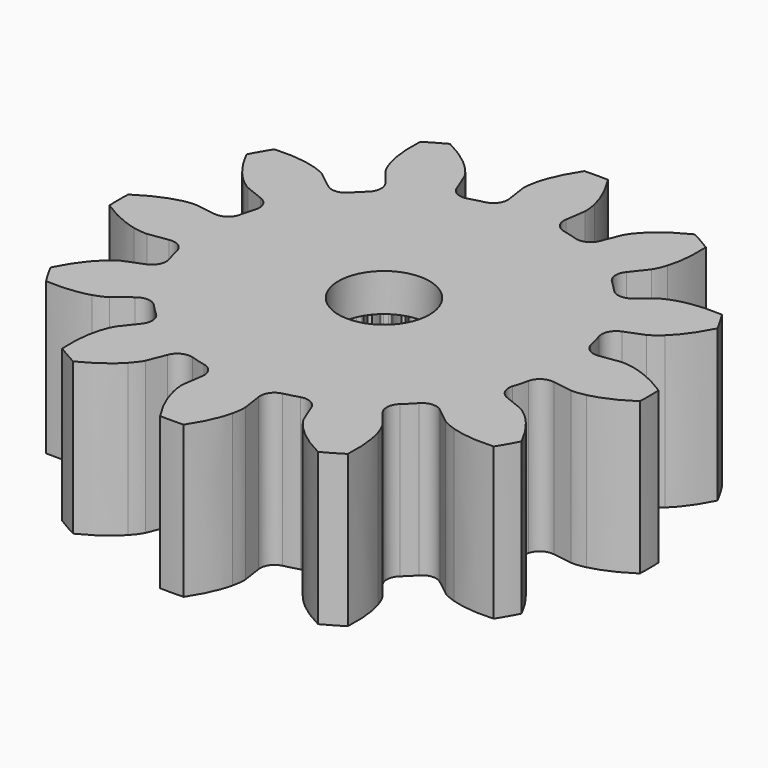
from build123d import *

# Parameters (mm, degrees)
PAD_DEPTH       = 4
POCKET_DEPTH    = 3
SKETCH_R        = 1.2
POCKET001_DEPTH = 4.001


with BuildPart() as part:
    # InvoluteGear001 → Pad (new body)
    with BuildSketch(Plane.XY):
        with BuildLine():
            Line((5.075568, -0.745328), (5.594228, -0.820664))
            add(Edge.make_bspline(
                [(5.594228, -0.820664), (5.635581, -0.823609), (5.759738, -0.82636), (5.968462, -0.778836)],
                knots=[0, 0, 0, 0, 1, 1, 1, 1], degree=3))
            add(Edge.make_bspline(
                [(5.968462, -0.778836), (6.216913, -0.72081), (6.57069, -0.59196), (6.994514, -0.309757)],
                knots=[0, 0, 0, 0, 1, 1, 1, 1], degree=3))
            ThreePointArc((6.994514, -0.309757), (7.000685, 0.000311), (6.993117, 0.310347))
            add(Edge.make_bspline(
                [(6.993117, 0.310347), (6.57069, 0.59196), (6.216913, 0.72081), (5.968462, 0.778836)],
                knots=[0, 0, 0, 0, 1, 1, 1, 1], degree=3))
            add(Edge.make_bspline(
                [(5.968462, 0.778836), (5.759738, 0.82636), (5.635581, 0.823609), (5.594228, 0.820664)],
                knots=[0, 0, 0, 0, 1, 1, 1, 1], degree=3))
            Line((5.594228, 0.820664), (5.075568, 0.745328))
            ThreePointArc((5.075568, 0.745328), (4.797245, 0.801779), (4.635779, 1.0354))
            ThreePointArc((4.635779, 1.0354), (4.588148, 1.22939), (4.532402, 1.421207))
            ThreePointArc((4.532402, 1.421207), (4.555425, 1.704262), (4.768234, 1.892311))
            Line((4.768234, 1.892311), (5.255075, 2.086398))
            add(Edge.make_bspline(
                [(5.255075, 2.086398), (5.292361, 2.104524), (5.401259, 2.16422), (5.558258, 2.309739)],
                knots=[0, 0, 0, 0, 1, 1, 1, 1], degree=3))
            add(Edge.make_bspline(
                [(5.558258, 2.309739), (5.74441, 2.484217), (5.986365, 2.772692), (6.212305, 3.229)],
                knots=[0, 0, 0, 0, 1, 1, 1, 1], degree=3))
            ThreePointArc((6.212305, 3.229), (6.062616, 3.500612), (5.901043, 3.765327))
            add(Edge.make_bspline(
                [(5.901043, 3.765327), (5.394404, 3.797998), (5.0236, 3.732696), (4.779422, 3.658723)],
                knots=[0, 0, 0, 0, 1, 1, 1, 1], degree=3))
            add(Edge.make_bspline(
                [(4.779422, 3.658723), (4.574899, 3.595517), (4.468752, 3.531057), (4.434411, 3.50783)],
                knots=[0, 0, 0, 0, 1, 1, 1, 1], degree=3))
            Line((4.434411, 3.50783), (4.022907, 3.183256))
            ThreePointArc((4.022907, 3.183256), (3.753647, 3.092983), (3.497002, 3.214572))
            ThreePointArc((3.497002, 3.214572), (3.358757, 3.358757), (3.214572, 3.497002))
            ThreePointArc((3.214572, 3.497002), (3.092983, 3.753647), (3.183256, 4.022907))
            Line((3.183256, 4.022907), (3.50783, 4.434411))
            add(Edge.make_bspline(
                [(3.50783, 4.434411), (3.531057, 4.468752), (3.595517, 4.574899), (3.658723, 4.779422)],
                knots=[0, 0, 0, 0, 1, 1, 1, 1], degree=3))
            add(Edge.make_bspline(
                [(3.658723, 4.779422), (3.732696, 5.0236), (3.797998, 5.394404), (3.765514, 5.902548)],
                knots=[0, 0, 0, 0, 1, 1, 1, 1], degree=3))
            ThreePointArc((3.765514, 5.902548), (3.500073, 6.062927), (3.22779, 6.211391))
            add(Edge.make_bspline(
                [(3.22779, 6.211391), (2.772692, 5.986365), (2.484217, 5.74441), (2.309739, 5.558258)],
                knots=[0, 0, 0, 0, 1, 1, 1, 1], degree=3))
            add(Edge.make_bspline(
                [(2.309739, 5.558258), (2.16422, 5.401259), (2.104524, 5.292361), (2.086398, 5.255075)],
                knots=[0, 0, 0, 0, 1, 1, 1, 1], degree=3))
            Line((2.086398, 5.255075), (1.892311, 4.768234))
            ThreePointArc((1.892311, 4.768234), (1.704262, 4.555425), (1.421207, 4.532402))
            ThreePointArc((1.421207, 4.532402), (1.22939, 4.588148), (1.0354, 4.635779))
            ThreePointArc((1.0354, 4.635779), (0.801779, 4.797245), (0.745328, 5.075568))
            Line((0.745328, 5.075568), (0.820664, 5.594228))
            add(Edge.make_bspline(
                [(0.820664, 5.594228), (0.823609, 5.635581), (0.82636, 5.759738), (0.778836, 5.968462)],
                knots=[0, 0, 0, 0, 1, 1, 1, 1], degree=3))
            add(Edge.make_bspline(
                [(0.778836, 5.968462), (0.72081, 6.216913), (0.59196, 6.57069), (0.309757, 6.994514)],
                knots=[0, 0, 0, 0, 1, 1, 1, 1], degree=3))
            ThreePointArc((0.309757, 6.994514), (-0.000311, 7.000685), (-0.310347, 6.993117))
            add(Edge.make_bspline(
                [(-0.310347, 6.993117), (-0.59196, 6.57069), (-0.72081, 6.216913), (-0.778836, 5.968462)],
                knots=[0, 0, 0, 0, 1, 1, 1, 1], degree=3))
            add(Edge.make_bspline(
                [(-0.778836, 5.968462), (-0.82636, 5.759738), (-0.823609, 5.635581), (-0.820664, 5.594228)],
                knots=[0, 0, 0, 0, 1, 1, 1, 1], degree=3))
            Line((-0.820664, 5.594228), (-0.745328, 5.075568))
            ThreePointArc((-0.745328, 5.075568), (-0.801779, 4.797245), (-1.0354, 4.635779))
            ThreePointArc((-1.0354, 4.635779), (-1.22939, 4.588148), (-1.421207, 4.532402))
            ThreePointArc((-1.421207, 4.532402), (-1.704262, 4.555425), (-1.892311, 4.768234))
            Line((-1.892311, 4.768234), (-2.086398, 5.255075))
            add(Edge.make_bspline(
                [(-2.086398, 5.255075), (-2.104524, 5.292361), (-2.16422, 5.401259), (-2.309739, 5.558258)],
                knots=[0, 0, 0, 0, 1, 1, 1, 1], degree=3))
            add(Edge.make_bspline(
                [(-2.309739, 5.558258), (-2.484217, 5.74441), (-2.772692, 5.986365), (-3.229, 6.212305)],
                knots=[0, 0, 0, 0, 1, 1, 1, 1], degree=3))
            ThreePointArc((-3.229, 6.212305), (-3.500612, 6.062616), (-3.765327, 5.901043))
            add(Edge.make_bspline(
                [(-3.765327, 5.901043), (-3.797998, 5.394404), (-3.732696, 5.0236), (-3.658723, 4.779422)],
                knots=[0, 0, 0, 0, 1, 1, 1, 1], degree=3))
            add(Edge.make_bspline(
                [(-3.658723, 4.779422), (-3.595517, 4.574899), (-3.531057, 4.468752), (-3.50783, 4.434411)],
                knots=[0, 0, 0, 0, 1, 1, 1, 1], degree=3))
            Line((-3.50783, 4.434411), (-3.183256, 4.022907))
            ThreePointArc((-3.183256, 4.022907), (-3.092983, 3.753647), (-3.214572, 3.497002))
            ThreePointArc((-3.214572, 3.497002), (-3.358757, 3.358757), (-3.497002, 3.214572))
            ThreePointArc((-3.497002, 3.214572), (-3.753647, 3.092983), (-4.022907, 3.183256))
            Line((-4.022907, 3.183256), (-4.434411, 3.50783))
            add(Edge.make_bspline(
                [(-4.434411, 3.50783), (-4.468752, 3.531057), (-4.574899, 3.595517), (-4.779422, 3.658723)],
                knots=[0, 0, 0, 0, 1, 1, 1, 1], degree=3))
            add(Edge.make_bspline(
                [(-4.779422, 3.658723), (-5.0236, 3.732696), (-5.394404, 3.797998), (-5.902548, 3.765514)],
                knots=[0, 0, 0, 0, 1, 1, 1, 1], degree=3))
            ThreePointArc((-5.902548, 3.765514), (-6.062927, 3.500073), (-6.211391, 3.22779))
            add(Edge.make_bspline(
                [(-6.211391, 3.22779), (-5.986365, 2.772692), (-5.74441, 2.484217), (-5.558258, 2.309739)],
                knots=[0, 0, 0, 0, 1, 1, 1, 1], degree=3))
            add(Edge.make_bspline(
                [(-5.558258, 2.309739), (-5.401259, 2.16422), (-5.292361, 2.104524), (-5.255075, 2.086398)],
                knots=[0, 0, 0, 0, 1, 1, 1, 1], degree=3))
            Line((-5.255075, 2.086398), (-4.768234, 1.892311))
            ThreePointArc((-4.768234, 1.892311), (-4.555425, 1.704262), (-4.532402, 1.421207))
            ThreePointArc((-4.532402, 1.421207), (-4.588148, 1.22939), (-4.635779, 1.0354))
            ThreePointArc((-4.635779, 1.0354), (-4.797245, 0.801779), (-5.075568, 0.745328))
            Line((-5.075568, 0.745328), (-5.594228, 0.820664))
            add(Edge.make_bspline(
                [(-5.594228, 0.820664), (-5.635581, 0.823609), (-5.759738, 0.82636), (-5.968462, 0.778836)],
                knots=[0, 0, 0, 0, 1, 1, 1, 1], degree=3))
            add(Edge.make_bspline(
                [(-5.968462, 0.778836), (-6.216913, 0.72081), (-6.57069, 0.59196), (-6.994514, 0.309757)],
                knots=[0, 0, 0, 0, 1, 1, 1, 1], degree=3))
            ThreePointArc((-6.994514, 0.309757), (-7.000685, -0.000311), (-6.993117, -0.310347))
            add(Edge.make_bspline(
                [(-6.993117, -0.310347), (-6.57069, -0.59196), (-6.216913, -0.72081), (-5.968462, -0.778836)],
                knots=[0, 0, 0, 0, 1, 1, 1, 1], degree=3))
            add(Edge.make_bspline(
                [(-5.968462, -0.778836), (-5.759738, -0.82636), (-5.635581, -0.823609), (-5.594228, -0.820664)],
                knots=[0, 0, 0, 0, 1, 1, 1, 1], degree=3))
            Line((-5.594228, -0.820664), (-5.075568, -0.745328))
            ThreePointArc((-5.075568, -0.745328), (-4.797245, -0.801779), (-4.635779, -1.0354))
            ThreePointArc((-4.635779, -1.0354), (-4.588148, -1.22939), (-4.532402, -1.421207))
            ThreePointArc((-4.532402, -1.421207), (-4.555425, -1.704262), (-4.768234, -1.892311))
            Line((-4.768234, -1.892311), (-5.255075, -2.086398))
            add(Edge.make_bspline(
                [(-5.255075, -2.086398), (-5.292361, -2.104524), (-5.401259, -2.16422), (-5.558258, -2.309739)],
                knots=[0, 0, 0, 0, 1, 1, 1, 1], degree=3))
            add(Edge.make_bspline(
                [(-5.558258, -2.309739), (-5.74441, -2.484217), (-5.986365, -2.772692), (-6.212305, -3.229)],
                knots=[0, 0, 0, 0, 1, 1, 1, 1], degree=3))
            ThreePointArc((-6.212305, -3.229), (-6.062616, -3.500612), (-5.901043, -3.765327))
            add(Edge.make_bspline(
                [(-5.901043, -3.765327), (-5.394404, -3.797998), (-5.0236, -3.732696), (-4.779422, -3.658723)],
                knots=[0, 0, 0, 0, 1, 1, 1, 1], degree=3))
            add(Edge.make_bspline(
                [(-4.779422, -3.658723), (-4.574899, -3.595517), (-4.468752, -3.531057), (-4.434411, -3.50783)],
                knots=[0, 0, 0, 0, 1, 1, 1, 1], degree=3))
            Line((-4.434411, -3.50783), (-4.022907, -3.183256))
            ThreePointArc((-4.022907, -3.183256), (-3.753647, -3.092983), (-3.497002, -3.214572))
            ThreePointArc((-3.497002, -3.214572), (-3.358757, -3.358757), (-3.214572, -3.497002))
            ThreePointArc((-3.214572, -3.497002), (-3.092983, -3.753647), (-3.183256, -4.022907))
            Line((-3.183256, -4.022907), (-3.50783, -4.434411))
            add(Edge.make_bspline(
                [(-3.50783, -4.434411), (-3.531057, -4.468752), (-3.595517, -4.574899), (-3.658723, -4.779422)],
                knots=[0, 0, 0, 0, 1, 1, 1, 1], degree=3))
            add(Edge.make_bspline(
                [(-3.658723, -4.779422), (-3.732696, -5.0236), (-3.797998, -5.394404), (-3.765514, -5.902548)],
                knots=[0, 0, 0, 0, 1, 1, 1, 1], degree=3))
            ThreePointArc((-3.765514, -5.902548), (-3.500073, -6.062927), (-3.22779, -6.211391))
            add(Edge.make_bspline(
                [(-3.22779, -6.211391), (-2.772692, -5.986365), (-2.484217, -5.74441), (-2.309739, -5.558258)],
                knots=[0, 0, 0, 0, 1, 1, 1, 1], degree=3))
            add(Edge.make_bspline(
                [(-2.309739, -5.558258), (-2.16422, -5.401259), (-2.104524, -5.292361), (-2.086398, -5.255075)],
                knots=[0, 0, 0, 0, 1, 1, 1, 1], degree=3))
            Line((-2.086398, -5.255075), (-1.892311, -4.768234))
            ThreePointArc((-1.892311, -4.768234), (-1.704262, -4.555425), (-1.421207, -4.532402))
            ThreePointArc((-1.421207, -4.532402), (-1.22939, -4.588148), (-1.0354, -4.635779))
            ThreePointArc((-1.0354, -4.635779), (-0.801779, -4.797245), (-0.745328, -5.075568))
            Line((-0.745328, -5.075568), (-0.820664, -5.594228))
            add(Edge.make_bspline(
                [(-0.820664, -5.594228), (-0.823609, -5.635581), (-0.82636, -5.759738), (-0.778836, -5.968462)],
                knots=[0, 0, 0, 0, 1, 1, 1, 1], degree=3))
            add(Edge.make_bspline(
                [(-0.778836, -5.968462), (-0.72081, -6.216913), (-0.59196, -6.57069), (-0.309757, -6.994514)],
                knots=[0, 0, 0, 0, 1, 1, 1, 1], degree=3))
            ThreePointArc((-0.309757, -6.994514), (0.000311, -7.000685), (0.310347, -6.993117))
            add(Edge.make_bspline(
                [(0.310347, -6.993117), (0.59196, -6.57069), (0.72081, -6.216913), (0.778836, -5.968462)],
                knots=[0, 0, 0, 0, 1, 1, 1, 1], degree=3))
            add(Edge.make_bspline(
                [(0.778836, -5.968462), (0.82636, -5.759738), (0.823609, -5.635581), (0.820664, -5.594228)],
                knots=[0, 0, 0, 0, 1, 1, 1, 1], degree=3))
            Line((0.820664, -5.594228), (0.745328, -5.075568))
            ThreePointArc((0.745328, -5.075568), (0.801779, -4.797245), (1.0354, -4.635779))
            ThreePointArc((1.0354, -4.635779), (1.22939, -4.588148), (1.421207, -4.532402))
            ThreePointArc((1.421207, -4.532402), (1.704262, -4.555425), (1.892311, -4.768234))
            Line((1.892311, -4.768234), (2.086398, -5.255075))
            add(Edge.make_bspline(
                [(2.086398, -5.255075), (2.104524, -5.292361), (2.16422, -5.401259), (2.309739, -5.558258)],
                knots=[0, 0, 0, 0, 1, 1, 1, 1], degree=3))
            add(Edge.make_bspline(
                [(2.309739, -5.558258), (2.484217, -5.74441), (2.772692, -5.986365), (3.229, -6.212305)],
                knots=[0, 0, 0, 0, 1, 1, 1, 1], degree=3))
            ThreePointArc((3.229, -6.212305), (3.500612, -6.062616), (3.765327, -5.901043))
            add(Edge.make_bspline(
                [(3.765327, -5.901043), (3.797998, -5.394404), (3.732696, -5.0236), (3.658723, -4.779422)],
                knots=[0, 0, 0, 0, 1, 1, 1, 1], degree=3))
            add(Edge.make_bspline(
                [(3.658723, -4.779422), (3.595517, -4.574899), (3.531057, -4.468752), (3.50783, -4.434411)],
                knots=[0, 0, 0, 0, 1, 1, 1, 1], degree=3))
            Line((3.50783, -4.434411), (3.183256, -4.022907))
            ThreePointArc((3.183256, -4.022907), (3.092983, -3.753647), (3.214572, -3.497002))
            ThreePointArc((3.214572, -3.497002), (3.358757, -3.358757), (3.497002, -3.214572))
            ThreePointArc((3.497002, -3.214572), (3.753647, -3.092983), (4.022907, -3.183256))
            Line((4.022907, -3.183256), (4.434411, -3.50783))
            add(Edge.make_bspline(
                [(4.434411, -3.50783), (4.468752, -3.531057), (4.574899, -3.595517), (4.779422, -3.658723)],
                knots=[0, 0, 0, 0, 1, 1, 1, 1], degree=3))
            add(Edge.make_bspline(
                [(4.779422, -3.658723), (5.0236, -3.732696), (5.394404, -3.797998), (5.902548, -3.765514)],
                knots=[0, 0, 0, 0, 1, 1, 1, 1], degree=3))
            ThreePointArc((5.902548, -3.765514), (6.062927, -3.500073), (6.211391, -3.22779))
            add(Edge.make_bspline(
                [(6.211391, -3.22779), (5.986365, -2.772692), (5.74441, -2.484217), (5.558258, -2.309739)],
                knots=[0, 0, 0, 0, 1, 1, 1, 1], degree=3))
            add(Edge.make_bspline(
                [(5.558258, -2.309739), (5.401259, -2.16422), (5.292361, -2.104524), (5.255075, -2.086398)],
                knots=[0, 0, 0, 0, 1, 1, 1, 1], degree=3))
            Line((5.255075, -2.086398), (4.768234, -1.892311))
            ThreePointArc((4.768234, -1.892311), (4.555425, -1.704262), (4.532402, -1.421207))
            ThreePointArc((4.532402, -1.421207), (4.588148, -1.22939), (4.635779, -1.0354))
            ThreePointArc((4.635779, -1.0354), (4.797245, -0.801779), (5.075568, -0.745328))
        make_face()
    extrude(amount=PAD_DEPTH)

    # InvoluteGear → Pocket (cut)
    with BuildSketch(Plane.XY):
        with BuildLine():
            Line((2.202869, -0.177392), (2.252415, -0.181193))
            add(Edge.make_bspline(
                [(2.252415, -0.181193), (2.264073, -0.181403), (2.299136, -0.180591), (2.357457, -0.166902)],
                knots=[0, 0, 0, 0, 1, 1, 1, 1], degree=3))
            add(Edge.make_bspline(
                [(2.357457, -0.166902), (2.427197, -0.15029), (2.52731, -0.115454), (2.649932, -0.042761)],
                knots=[0, 0, 0, 0, 1, 1, 1, 1], degree=3))
            ThreePointArc((2.649932, -0.042761), (2.650139, 5.6e-05), (2.649653, 0.042872))
            add(Edge.make_bspline(
                [(2.649653, 0.042872), (2.52731, 0.115454), (2.427197, 0.15029), (2.357457, 0.166902)],
                knots=[0, 0, 0, 0, 1, 1, 1, 1], degree=3))
            add(Edge.make_bspline(
                [(2.357457, 0.166902), (2.299136, 0.180591), (2.264073, 0.181403), (2.252415, 0.181193)],
                knots=[0, 0, 0, 0, 1, 1, 1, 1], degree=3))
            Line((2.252415, 0.181193), (2.202869, 0.177392))
            ThreePointArc((2.202869, 0.177392), (2.159302, 0.190645), (2.13759, 0.230673))
            ThreePointArc((2.13759, 0.230673), (2.131606, 0.280631), (2.124456, 0.330435))
            ThreePointArc((2.124456, 0.330435), (2.135068, 0.37472), (2.173721, 0.398797))
            Line((2.173721, 0.398797), (2.222562, 0.407949))
            add(Edge.make_bspline(
                [(2.222562, 0.407949), (2.233877, 0.410764), (2.267535, 0.420623), (2.320326, 0.448939)],
                knots=[0, 0, 0, 0, 1, 1, 1, 1], degree=3))
            add(Edge.make_bspline(
                [(2.320326, 0.448939), (2.383391, 0.483035), (2.471076, 0.542596), (2.570705, 0.644549)],
                knots=[0, 0, 0, 0, 1, 1, 1, 1], degree=3))
            ThreePointArc((2.570705, 0.644549), (2.559823, 0.685961), (2.548272, 0.727192))
            add(Edge.make_bspline(
                [(2.548272, 0.727192), (2.411312, 0.765636), (2.305594, 0.773374), (2.233931, 0.77137)],
                knots=[0, 0, 0, 0, 1, 1, 1, 1], degree=3))
            add(Edge.make_bspline(
                [(2.233931, 0.77137), (2.174055, 0.769497), (2.139976, 0.761207), (2.128769, 0.757987)],
                knots=[0, 0, 0, 0, 1, 1, 1, 1], degree=3))
            Line((2.128769, 0.757987), (2.081896, 0.741492))
            ThreePointArc((2.081896, 0.741492), (2.036383, 0.743017), (2.00505, 0.776062))
            ThreePointArc((2.00505, 0.776062), (1.986341, 0.822769), (1.966544, 0.869026))
            ThreePointArc((1.966544, 0.869026), (1.965333, 0.914548), (1.996436, 0.947809))
            Line((1.996436, 0.947809), (2.041245, 0.96929))
            add(Edge.make_bspline(
                [(2.041245, 0.96929), (2.051446, 0.974937), (2.081406, 0.993172), (2.125069, 1.034187)],
                knots=[0, 0, 0, 0, 1, 1, 1, 1], degree=3))
            add(Edge.make_bspline(
                [(2.125069, 1.034187), (2.17716, 1.083443), (2.246442, 1.163669), (2.316289, 1.287934)],
                knots=[0, 0, 0, 0, 1, 1, 1, 1], degree=3))
            ThreePointArc((2.316289, 1.287934), (2.295059, 1.325118), (2.273231, 1.361955))
            add(Edge.make_bspline(
                [(2.273231, 1.361955), (2.130987, 1.363641), (2.026869, 1.343754), (1.958167, 1.32327)],
                knots=[0, 0, 0, 0, 1, 1, 1, 1], degree=3))
            add(Edge.make_bspline(
                [(1.958167, 1.32327), (1.900815, 1.305964), (1.870044, 1.289136), (1.860052, 1.283125)],
                knots=[0, 0, 0, 0, 1, 1, 1, 1], degree=3))
            Line((1.860052, 1.283125), (1.819045, 1.25506))
            ThreePointArc((1.819045, 1.25506), (1.774688, 1.244755), (1.73587, 1.268564))
            ThreePointArc((1.73587, 1.268564), (1.70571, 1.308837), (1.674615, 1.348393))
            ThreePointArc((1.674615, 1.348393), (1.661664, 1.392051), (1.683099, 1.432229))
            Line((1.683099, 1.432229), (1.72082, 1.464575))
            add(Edge.make_bspline(
                [(1.72082, 1.464575), (1.729212, 1.47267), (1.753432, 1.498038), (1.784992, 1.548956)],
                knots=[0, 0, 0, 0, 1, 1, 1, 1], degree=3))
            add(Edge.make_bspline(
                [(1.784992, 1.548956), (1.822559, 1.610016), (1.868717, 1.705439), (1.904022, 1.843548)],
                knots=[0, 0, 0, 0, 1, 1, 1, 1], degree=3))
            ThreePointArc((1.904022, 1.843548), (1.873891, 1.873971), (1.843273, 1.903903))
            add(Edge.make_bspline(
                [(1.843273, 1.903903), (1.705439, 1.868717), (1.610016, 1.822559), (1.548956, 1.784992)],
                knots=[0, 0, 0, 0, 1, 1, 1, 1], degree=3))
            add(Edge.make_bspline(
                [(1.548956, 1.784992), (1.498038, 1.753432), (1.47267, 1.729212), (1.464575, 1.72082)],
                knots=[0, 0, 0, 0, 1, 1, 1, 1], degree=3))
            Line((1.464575, 1.72082), (1.432229, 1.683099))
            ThreePointArc((1.432229, 1.683099), (1.392051, 1.661664), (1.348393, 1.674615))
            ThreePointArc((1.348393, 1.674615), (1.308837, 1.70571), (1.268564, 1.73587))
            ThreePointArc((1.268564, 1.73587), (1.244755, 1.774688), (1.25506, 1.819045))
            Line((1.25506, 1.819045), (1.283125, 1.860052))
            add(Edge.make_bspline(
                [(1.283125, 1.860052), (1.289136, 1.870044), (1.305964, 1.900815), (1.32327, 1.958167)],
                knots=[0, 0, 0, 0, 1, 1, 1, 1], degree=3))
            add(Edge.make_bspline(
                [(1.32327, 1.958167), (1.343754, 2.026869), (1.363641, 2.130987), (1.361998, 2.273528)],
                knots=[0, 0, 0, 0, 1, 1, 1, 1], degree=3))
            ThreePointArc((1.361998, 2.273528), (1.32502, 2.295116), (1.287698, 2.316103))
            add(Edge.make_bspline(
                [(1.287698, 2.316103), (1.163669, 2.246442), (1.083443, 2.17716), (1.034187, 2.125069)],
                knots=[0, 0, 0, 0, 1, 1, 1, 1], degree=3))
            add(Edge.make_bspline(
                [(1.034187, 2.125069), (0.993172, 2.081406), (0.974937, 2.051446), (0.96929, 2.041245)],
                knots=[0, 0, 0, 0, 1, 1, 1, 1], degree=3))
            Line((0.96929, 2.041245), (0.947809, 1.996436))
            ThreePointArc((0.947809, 1.996436), (0.914548, 1.965333), (0.869026, 1.966544))
            ThreePointArc((0.869026, 1.966544), (0.822769, 1.986341), (0.776062, 2.00505))
            ThreePointArc((0.776062, 2.00505), (0.743017, 2.036383), (0.741492, 2.081896))
            Line((0.741492, 2.081896), (0.757987, 2.128769))
            add(Edge.make_bspline(
                [(0.757987, 2.128769), (0.761207, 2.139976), (0.769497, 2.174055), (0.77137, 2.233931)],
                knots=[0, 0, 0, 0, 1, 1, 1, 1], degree=3))
            add(Edge.make_bspline(
                [(0.77137, 2.233931), (0.773374, 2.305594), (0.765636, 2.411312), (0.727157, 2.54857)],
                knots=[0, 0, 0, 0, 1, 1, 1, 1], degree=3))
            ThreePointArc((0.727157, 2.54857), (0.685852, 2.559852), (0.64437, 2.570465))
            add(Edge.make_bspline(
                [(0.64437, 2.570465), (0.542596, 2.471076), (0.483035, 2.383391), (0.448939, 2.320326)],
                knots=[0, 0, 0, 0, 1, 1, 1, 1], degree=3))
            add(Edge.make_bspline(
                [(0.448939, 2.320326), (0.420623, 2.267535), (0.410764, 2.233877), (0.407949, 2.222562)],
                knots=[0, 0, 0, 0, 1, 1, 1, 1], degree=3))
            Line((0.407949, 2.222562), (0.398797, 2.173721))
            ThreePointArc((0.398797, 2.173721), (0.37472, 2.135068), (0.330435, 2.124456))
            ThreePointArc((0.330435, 2.124456), (0.280631, 2.131606), (0.230673, 2.13759))
            ThreePointArc((0.230673, 2.13759), (0.190645, 2.159302), (0.177392, 2.202869))
            Line((0.177392, 2.202869), (0.181193, 2.252415))
            add(Edge.make_bspline(
                [(0.181193, 2.252415), (0.181403, 2.264073), (0.180591, 2.299136), (0.166902, 2.357457)],
                knots=[0, 0, 0, 0, 1, 1, 1, 1], degree=3))
            add(Edge.make_bspline(
                [(0.166902, 2.357457), (0.15029, 2.427197), (0.115454, 2.52731), (0.042761, 2.649932)],
                knots=[0, 0, 0, 0, 1, 1, 1, 1], degree=3))
            ThreePointArc((0.042761, 2.649932), (-5.6e-05, 2.650139), (-0.042872, 2.649653))
            add(Edge.make_bspline(
                [(-0.042872, 2.649653), (-0.115454, 2.52731), (-0.15029, 2.427197), (-0.166902, 2.357457)],
                knots=[0, 0, 0, 0, 1, 1, 1, 1], degree=3))
            add(Edge.make_bspline(
                [(-0.166902, 2.357457), (-0.180591, 2.299136), (-0.181403, 2.264073), (-0.181193, 2.252415)],
                knots=[0, 0, 0, 0, 1, 1, 1, 1], degree=3))
            Line((-0.181193, 2.252415), (-0.177392, 2.202869))
            ThreePointArc((-0.177392, 2.202869), (-0.190645, 2.159302), (-0.230673, 2.13759))
            ThreePointArc((-0.230673, 2.13759), (-0.280631, 2.131606), (-0.330435, 2.124456))
            ThreePointArc((-0.330435, 2.124456), (-0.37472, 2.135068), (-0.398797, 2.173721))
            Line((-0.398797, 2.173721), (-0.407949, 2.222562))
            add(Edge.make_bspline(
                [(-0.407949, 2.222562), (-0.410764, 2.233877), (-0.420623, 2.267535), (-0.448939, 2.320326)],
                knots=[0, 0, 0, 0, 1, 1, 1, 1], degree=3))
            add(Edge.make_bspline(
                [(-0.448939, 2.320326), (-0.483035, 2.383391), (-0.542596, 2.471076), (-0.644549, 2.570705)],
                knots=[0, 0, 0, 0, 1, 1, 1, 1], degree=3))
            ThreePointArc((-0.644549, 2.570705), (-0.685961, 2.559823), (-0.727192, 2.548272))
            add(Edge.make_bspline(
                [(-0.727192, 2.548272), (-0.765636, 2.411312), (-0.773374, 2.305594), (-0.77137, 2.233931)],
                knots=[0, 0, 0, 0, 1, 1, 1, 1], degree=3))
            add(Edge.make_bspline(
                [(-0.77137, 2.233931), (-0.769497, 2.174055), (-0.761207, 2.139976), (-0.757987, 2.128769)],
                knots=[0, 0, 0, 0, 1, 1, 1, 1], degree=3))
            Line((-0.757987, 2.128769), (-0.741492, 2.081896))
            ThreePointArc((-0.741492, 2.081896), (-0.743017, 2.036383), (-0.776062, 2.00505))
            ThreePointArc((-0.776062, 2.00505), (-0.822769, 1.986341), (-0.869026, 1.966544))
            ThreePointArc((-0.869026, 1.966544), (-0.914548, 1.965333), (-0.947809, 1.996436))
            Line((-0.947809, 1.996436), (-0.96929, 2.041245))
            add(Edge.make_bspline(
                [(-0.96929, 2.041245), (-0.974937, 2.051446), (-0.993172, 2.081406), (-1.034187, 2.125069)],
                knots=[0, 0, 0, 0, 1, 1, 1, 1], degree=3))
            add(Edge.make_bspline(
                [(-1.034187, 2.125069), (-1.083443, 2.17716), (-1.163669, 2.246442), (-1.287934, 2.316289)],
                knots=[0, 0, 0, 0, 1, 1, 1, 1], degree=3))
            ThreePointArc((-1.287934, 2.316289), (-1.325118, 2.295059), (-1.361955, 2.273231))
            add(Edge.make_bspline(
                [(-1.361955, 2.273231), (-1.363641, 2.130987), (-1.343754, 2.026869), (-1.32327, 1.958167)],
                knots=[0, 0, 0, 0, 1, 1, 1, 1], degree=3))
            add(Edge.make_bspline(
                [(-1.32327, 1.958167), (-1.305964, 1.900815), (-1.289136, 1.870044), (-1.283125, 1.860052)],
                knots=[0, 0, 0, 0, 1, 1, 1, 1], degree=3))
            Line((-1.283125, 1.860052), (-1.25506, 1.819045))
            ThreePointArc((-1.25506, 1.819045), (-1.244755, 1.774688), (-1.268564, 1.73587))
            ThreePointArc((-1.268564, 1.73587), (-1.308837, 1.70571), (-1.348393, 1.674615))
            ThreePointArc((-1.348393, 1.674615), (-1.392051, 1.661664), (-1.432229, 1.683099))
            Line((-1.432229, 1.683099), (-1.464575, 1.72082))
            add(Edge.make_bspline(
                [(-1.464575, 1.72082), (-1.47267, 1.729212), (-1.498038, 1.753432), (-1.548956, 1.784992)],
                knots=[0, 0, 0, 0, 1, 1, 1, 1], degree=3))
            add(Edge.make_bspline(
                [(-1.548956, 1.784992), (-1.610016, 1.822559), (-1.705439, 1.868717), (-1.843548, 1.904022)],
                knots=[0, 0, 0, 0, 1, 1, 1, 1], degree=3))
            ThreePointArc((-1.843548, 1.904022), (-1.873971, 1.873891), (-1.903903, 1.843273))
            add(Edge.make_bspline(
                [(-1.903903, 1.843273), (-1.868717, 1.705439), (-1.822559, 1.610016), (-1.784992, 1.548956)],
                knots=[0, 0, 0, 0, 1, 1, 1, 1], degree=3))
            add(Edge.make_bspline(
                [(-1.784992, 1.548956), (-1.753432, 1.498038), (-1.729212, 1.47267), (-1.72082, 1.464575)],
                knots=[0, 0, 0, 0, 1, 1, 1, 1], degree=3))
            Line((-1.72082, 1.464575), (-1.683099, 1.432229))
            ThreePointArc((-1.683099, 1.432229), (-1.661664, 1.392051), (-1.674615, 1.348393))
            ThreePointArc((-1.674615, 1.348393), (-1.70571, 1.308837), (-1.73587, 1.268564))
            ThreePointArc((-1.73587, 1.268564), (-1.774688, 1.244755), (-1.819045, 1.25506))
            Line((-1.819045, 1.25506), (-1.860052, 1.283125))
            add(Edge.make_bspline(
                [(-1.860052, 1.283125), (-1.870044, 1.289136), (-1.900815, 1.305964), (-1.958167, 1.32327)],
                knots=[0, 0, 0, 0, 1, 1, 1, 1], degree=3))
            add(Edge.make_bspline(
                [(-1.958167, 1.32327), (-2.026869, 1.343754), (-2.130987, 1.363641), (-2.273528, 1.361998)],
                knots=[0, 0, 0, 0, 1, 1, 1, 1], degree=3))
            ThreePointArc((-2.273528, 1.361998), (-2.295116, 1.32502), (-2.316103, 1.287698))
            add(Edge.make_bspline(
                [(-2.316103, 1.287698), (-2.246442, 1.163669), (-2.17716, 1.083443), (-2.125069, 1.034187)],
                knots=[0, 0, 0, 0, 1, 1, 1, 1], degree=3))
            add(Edge.make_bspline(
                [(-2.125069, 1.034187), (-2.081406, 0.993172), (-2.051446, 0.974937), (-2.041245, 0.96929)],
                knots=[0, 0, 0, 0, 1, 1, 1, 1], degree=3))
            Line((-2.041245, 0.96929), (-1.996436, 0.947809))
            ThreePointArc((-1.996436, 0.947809), (-1.965333, 0.914548), (-1.966544, 0.869026))
            ThreePointArc((-1.966544, 0.869026), (-1.986341, 0.822769), (-2.00505, 0.776062))
            ThreePointArc((-2.00505, 0.776062), (-2.036383, 0.743017), (-2.081896, 0.741492))
            Line((-2.081896, 0.741492), (-2.128769, 0.757987))
            add(Edge.make_bspline(
                [(-2.128769, 0.757987), (-2.139976, 0.761207), (-2.174055, 0.769497), (-2.233931, 0.77137)],
                knots=[0, 0, 0, 0, 1, 1, 1, 1], degree=3))
            add(Edge.make_bspline(
                [(-2.233931, 0.77137), (-2.305594, 0.773374), (-2.411312, 0.765636), (-2.54857, 0.727157)],
                knots=[0, 0, 0, 0, 1, 1, 1, 1], degree=3))
            ThreePointArc((-2.54857, 0.727157), (-2.559852, 0.685852), (-2.570465, 0.64437))
            add(Edge.make_bspline(
                [(-2.570465, 0.64437), (-2.471076, 0.542596), (-2.383391, 0.483035), (-2.320326, 0.448939)],
                knots=[0, 0, 0, 0, 1, 1, 1, 1], degree=3))
            add(Edge.make_bspline(
                [(-2.320326, 0.448939), (-2.267535, 0.420623), (-2.233877, 0.410764), (-2.222562, 0.407949)],
                knots=[0, 0, 0, 0, 1, 1, 1, 1], degree=3))
            Line((-2.222562, 0.407949), (-2.173721, 0.398797))
            ThreePointArc((-2.173721, 0.398797), (-2.135068, 0.37472), (-2.124456, 0.330435))
            ThreePointArc((-2.124456, 0.330435), (-2.131606, 0.280631), (-2.13759, 0.230673))
            ThreePointArc((-2.13759, 0.230673), (-2.159302, 0.190645), (-2.202869, 0.177392))
            Line((-2.202869, 0.177392), (-2.252415, 0.181193))
            add(Edge.make_bspline(
                [(-2.252415, 0.181193), (-2.264073, 0.181403), (-2.299136, 0.180591), (-2.357457, 0.166902)],
                knots=[0, 0, 0, 0, 1, 1, 1, 1], degree=3))
            add(Edge.make_bspline(
                [(-2.357457, 0.166902), (-2.427197, 0.15029), (-2.52731, 0.115454), (-2.649932, 0.042761)],
                knots=[0, 0, 0, 0, 1, 1, 1, 1], degree=3))
            ThreePointArc((-2.649932, 0.042761), (-2.650139, -5.6e-05), (-2.649653, -0.042872))
            add(Edge.make_bspline(
                [(-2.649653, -0.042872), (-2.52731, -0.115454), (-2.427197, -0.15029), (-2.357457, -0.166902)],
                knots=[0, 0, 0, 0, 1, 1, 1, 1], degree=3))
            add(Edge.make_bspline(
                [(-2.357457, -0.166902), (-2.299136, -0.180591), (-2.264073, -0.181403), (-2.252415, -0.181193)],
                knots=[0, 0, 0, 0, 1, 1, 1, 1], degree=3))
            Line((-2.252415, -0.181193), (-2.202869, -0.177392))
            ThreePointArc((-2.202869, -0.177392), (-2.159302, -0.190645), (-2.13759, -0.230673))
            ThreePointArc((-2.13759, -0.230673), (-2.131606, -0.280631), (-2.124456, -0.330435))
            ThreePointArc((-2.124456, -0.330435), (-2.135068, -0.37472), (-2.173721, -0.398797))
            Line((-2.173721, -0.398797), (-2.222562, -0.407949))
            add(Edge.make_bspline(
                [(-2.222562, -0.407949), (-2.233877, -0.410764), (-2.267535, -0.420623), (-2.320326, -0.448939)],
                knots=[0, 0, 0, 0, 1, 1, 1, 1], degree=3))
            add(Edge.make_bspline(
                [(-2.320326, -0.448939), (-2.383391, -0.483035), (-2.471076, -0.542596), (-2.570705, -0.644549)],
                knots=[0, 0, 0, 0, 1, 1, 1, 1], degree=3))
            ThreePointArc((-2.570705, -0.644549), (-2.559823, -0.685961), (-2.548272, -0.727192))
            add(Edge.make_bspline(
                [(-2.548272, -0.727192), (-2.411312, -0.765636), (-2.305594, -0.773374), (-2.233931, -0.77137)],
                knots=[0, 0, 0, 0, 1, 1, 1, 1], degree=3))
            add(Edge.make_bspline(
                [(-2.233931, -0.77137), (-2.174055, -0.769497), (-2.139976, -0.761207), (-2.128769, -0.757987)],
                knots=[0, 0, 0, 0, 1, 1, 1, 1], degree=3))
            Line((-2.128769, -0.757987), (-2.081896, -0.741492))
            ThreePointArc((-2.081896, -0.741492), (-2.036383, -0.743017), (-2.00505, -0.776062))
            ThreePointArc((-2.00505, -0.776062), (-1.986341, -0.822769), (-1.966544, -0.869026))
            ThreePointArc((-1.966544, -0.869026), (-1.965333, -0.914548), (-1.996436, -0.947809))
            Line((-1.996436, -0.947809), (-2.041245, -0.96929))
            add(Edge.make_bspline(
                [(-2.041245, -0.96929), (-2.051446, -0.974937), (-2.081406, -0.993172), (-2.125069, -1.034187)],
                knots=[0, 0, 0, 0, 1, 1, 1, 1], degree=3))
            add(Edge.make_bspline(
                [(-2.125069, -1.034187), (-2.17716, -1.083443), (-2.246442, -1.163669), (-2.316289, -1.287934)],
                knots=[0, 0, 0, 0, 1, 1, 1, 1], degree=3))
            ThreePointArc((-2.316289, -1.287934), (-2.295059, -1.325118), (-2.273231, -1.361955))
            add(Edge.make_bspline(
                [(-2.273231, -1.361955), (-2.130987, -1.363641), (-2.026869, -1.343754), (-1.958167, -1.32327)],
                knots=[0, 0, 0, 0, 1, 1, 1, 1], degree=3))
            add(Edge.make_bspline(
                [(-1.958167, -1.32327), (-1.900815, -1.305964), (-1.870044, -1.289136), (-1.860052, -1.283125)],
                knots=[0, 0, 0, 0, 1, 1, 1, 1], degree=3))
            Line((-1.860052, -1.283125), (-1.819045, -1.25506))
            ThreePointArc((-1.819045, -1.25506), (-1.774688, -1.244755), (-1.73587, -1.268564))
            ThreePointArc((-1.73587, -1.268564), (-1.70571, -1.308837), (-1.674615, -1.348393))
            ThreePointArc((-1.674615, -1.348393), (-1.661664, -1.392051), (-1.683099, -1.432229))
            Line((-1.683099, -1.432229), (-1.72082, -1.464575))
            add(Edge.make_bspline(
                [(-1.72082, -1.464575), (-1.729212, -1.47267), (-1.753432, -1.498038), (-1.784992, -1.548956)],
                knots=[0, 0, 0, 0, 1, 1, 1, 1], degree=3))
            add(Edge.make_bspline(
                [(-1.784992, -1.548956), (-1.822559, -1.610016), (-1.868717, -1.705439), (-1.904022, -1.843548)],
                knots=[0, 0, 0, 0, 1, 1, 1, 1], degree=3))
            ThreePointArc((-1.904022, -1.843548), (-1.873891, -1.873971), (-1.843273, -1.903903))
            add(Edge.make_bspline(
                [(-1.843273, -1.903903), (-1.705439, -1.868717), (-1.610016, -1.822559), (-1.548956, -1.784992)],
                knots=[0, 0, 0, 0, 1, 1, 1, 1], degree=3))
            add(Edge.make_bspline(
                [(-1.548956, -1.784992), (-1.498038, -1.753432), (-1.47267, -1.729212), (-1.464575, -1.72082)],
                knots=[0, 0, 0, 0, 1, 1, 1, 1], degree=3))
            Line((-1.464575, -1.72082), (-1.432229, -1.683099))
            ThreePointArc((-1.432229, -1.683099), (-1.392051, -1.661664), (-1.348393, -1.674615))
            ThreePointArc((-1.348393, -1.674615), (-1.308837, -1.70571), (-1.268564, -1.73587))
            ThreePointArc((-1.268564, -1.73587), (-1.244755, -1.774688), (-1.25506, -1.819045))
            Line((-1.25506, -1.819045), (-1.283125, -1.860052))
            add(Edge.make_bspline(
                [(-1.283125, -1.860052), (-1.289136, -1.870044), (-1.305964, -1.900815), (-1.32327, -1.958167)],
                knots=[0, 0, 0, 0, 1, 1, 1, 1], degree=3))
            add(Edge.make_bspline(
                [(-1.32327, -1.958167), (-1.343754, -2.026869), (-1.363641, -2.130987), (-1.361998, -2.273528)],
                knots=[0, 0, 0, 0, 1, 1, 1, 1], degree=3))
            ThreePointArc((-1.361998, -2.273528), (-1.32502, -2.295116), (-1.287698, -2.316103))
            add(Edge.make_bspline(
                [(-1.287698, -2.316103), (-1.163669, -2.246442), (-1.083443, -2.17716), (-1.034187, -2.125069)],
                knots=[0, 0, 0, 0, 1, 1, 1, 1], degree=3))
            add(Edge.make_bspline(
                [(-1.034187, -2.125069), (-0.993172, -2.081406), (-0.974937, -2.051446), (-0.96929, -2.041245)],
                knots=[0, 0, 0, 0, 1, 1, 1, 1], degree=3))
            Line((-0.96929, -2.041245), (-0.947809, -1.996436))
            ThreePointArc((-0.947809, -1.996436), (-0.914548, -1.965333), (-0.869026, -1.966544))
            ThreePointArc((-0.869026, -1.966544), (-0.822769, -1.986341), (-0.776062, -2.00505))
            ThreePointArc((-0.776062, -2.00505), (-0.743017, -2.036383), (-0.741492, -2.081896))
            Line((-0.741492, -2.081896), (-0.757987, -2.128769))
            add(Edge.make_bspline(
                [(-0.757987, -2.128769), (-0.761207, -2.139976), (-0.769497, -2.174055), (-0.77137, -2.233931)],
                knots=[0, 0, 0, 0, 1, 1, 1, 1], degree=3))
            add(Edge.make_bspline(
                [(-0.77137, -2.233931), (-0.773374, -2.305594), (-0.765636, -2.411312), (-0.727157, -2.54857)],
                knots=[0, 0, 0, 0, 1, 1, 1, 1], degree=3))
            ThreePointArc((-0.727157, -2.54857), (-0.685852, -2.559852), (-0.64437, -2.570465))
            add(Edge.make_bspline(
                [(-0.64437, -2.570465), (-0.542596, -2.471076), (-0.483035, -2.383391), (-0.448939, -2.320326)],
                knots=[0, 0, 0, 0, 1, 1, 1, 1], degree=3))
            add(Edge.make_bspline(
                [(-0.448939, -2.320326), (-0.420623, -2.267535), (-0.410764, -2.233877), (-0.407949, -2.222562)],
                knots=[0, 0, 0, 0, 1, 1, 1, 1], degree=3))
            Line((-0.407949, -2.222562), (-0.398797, -2.173721))
            ThreePointArc((-0.398797, -2.173721), (-0.37472, -2.135068), (-0.330435, -2.124456))
            ThreePointArc((-0.330435, -2.124456), (-0.280631, -2.131606), (-0.230673, -2.13759))
            ThreePointArc((-0.230673, -2.13759), (-0.190645, -2.159302), (-0.177392, -2.202869))
            Line((-0.177392, -2.202869), (-0.181193, -2.252415))
            add(Edge.make_bspline(
                [(-0.181193, -2.252415), (-0.181403, -2.264073), (-0.180591, -2.299136), (-0.166902, -2.357457)],
                knots=[0, 0, 0, 0, 1, 1, 1, 1], degree=3))
            add(Edge.make_bspline(
                [(-0.166902, -2.357457), (-0.15029, -2.427197), (-0.115454, -2.52731), (-0.042761, -2.649932)],
                knots=[0, 0, 0, 0, 1, 1, 1, 1], degree=3))
            ThreePointArc((-0.042761, -2.649932), (5.6e-05, -2.650139), (0.042872, -2.649653))
            add(Edge.make_bspline(
                [(0.042872, -2.649653), (0.115454, -2.52731), (0.15029, -2.427197), (0.166902, -2.357457)],
                knots=[0, 0, 0, 0, 1, 1, 1, 1], degree=3))
            add(Edge.make_bspline(
                [(0.166902, -2.357457), (0.180591, -2.299136), (0.181403, -2.264073), (0.181193, -2.252415)],
                knots=[0, 0, 0, 0, 1, 1, 1, 1], degree=3))
            Line((0.181193, -2.252415), (0.177392, -2.202869))
            ThreePointArc((0.177392, -2.202869), (0.190645, -2.159302), (0.230673, -2.13759))
            ThreePointArc((0.230673, -2.13759), (0.280631, -2.131606), (0.330435, -2.124456))
            ThreePointArc((0.330435, -2.124456), (0.37472, -2.135068), (0.398797, -2.173721))
            Line((0.398797, -2.173721), (0.407949, -2.222562))
            add(Edge.make_bspline(
                [(0.407949, -2.222562), (0.410764, -2.233877), (0.420623, -2.267535), (0.448939, -2.320326)],
                knots=[0, 0, 0, 0, 1, 1, 1, 1], degree=3))
            add(Edge.make_bspline(
                [(0.448939, -2.320326), (0.483035, -2.383391), (0.542596, -2.471076), (0.644549, -2.570705)],
                knots=[0, 0, 0, 0, 1, 1, 1, 1], degree=3))
            ThreePointArc((0.644549, -2.570705), (0.685961, -2.559823), (0.727192, -2.548272))
            add(Edge.make_bspline(
                [(0.727192, -2.548272), (0.765636, -2.411312), (0.773374, -2.305594), (0.77137, -2.233931)],
                knots=[0, 0, 0, 0, 1, 1, 1, 1], degree=3))
            add(Edge.make_bspline(
                [(0.77137, -2.233931), (0.769497, -2.174055), (0.761207, -2.139976), (0.757987, -2.128769)],
                knots=[0, 0, 0, 0, 1, 1, 1, 1], degree=3))
            Line((0.757987, -2.128769), (0.741492, -2.081896))
            ThreePointArc((0.741492, -2.081896), (0.743017, -2.036383), (0.776062, -2.00505))
            ThreePointArc((0.776062, -2.00505), (0.822769, -1.986341), (0.869026, -1.966544))
            ThreePointArc((0.869026, -1.966544), (0.914548, -1.965333), (0.947809, -1.996436))
            Line((0.947809, -1.996436), (0.96929, -2.041245))
            add(Edge.make_bspline(
                [(0.96929, -2.041245), (0.974937, -2.051446), (0.993172, -2.081406), (1.034187, -2.125069)],
                knots=[0, 0, 0, 0, 1, 1, 1, 1], degree=3))
            add(Edge.make_bspline(
                [(1.034187, -2.125069), (1.083443, -2.17716), (1.163669, -2.246442), (1.287934, -2.316289)],
                knots=[0, 0, 0, 0, 1, 1, 1, 1], degree=3))
            ThreePointArc((1.287934, -2.316289), (1.325118, -2.295059), (1.361955, -2.273231))
            add(Edge.make_bspline(
                [(1.361955, -2.273231), (1.363641, -2.130987), (1.343754, -2.026869), (1.32327, -1.958167)],
                knots=[0, 0, 0, 0, 1, 1, 1, 1], degree=3))
            add(Edge.make_bspline(
                [(1.32327, -1.958167), (1.305964, -1.900815), (1.289136, -1.870044), (1.283125, -1.860052)],
                knots=[0, 0, 0, 0, 1, 1, 1, 1], degree=3))
            Line((1.283125, -1.860052), (1.25506, -1.819045))
            ThreePointArc((1.25506, -1.819045), (1.244755, -1.774688), (1.268564, -1.73587))
            ThreePointArc((1.268564, -1.73587), (1.308837, -1.70571), (1.348393, -1.674615))
            ThreePointArc((1.348393, -1.674615), (1.392051, -1.661664), (1.432229, -1.683099))
            Line((1.432229, -1.683099), (1.464575, -1.72082))
            add(Edge.make_bspline(
                [(1.464575, -1.72082), (1.47267, -1.729212), (1.498038, -1.753432), (1.548956, -1.784992)],
                knots=[0, 0, 0, 0, 1, 1, 1, 1], degree=3))
            add(Edge.make_bspline(
                [(1.548956, -1.784992), (1.610016, -1.822559), (1.705439, -1.868717), (1.843548, -1.904022)],
                knots=[0, 0, 0, 0, 1, 1, 1, 1], degree=3))
            ThreePointArc((1.843548, -1.904022), (1.873971, -1.873891), (1.903903, -1.843273))
            add(Edge.make_bspline(
                [(1.903903, -1.843273), (1.868717, -1.705439), (1.822559, -1.610016), (1.784992, -1.548956)],
                knots=[0, 0, 0, 0, 1, 1, 1, 1], degree=3))
            add(Edge.make_bspline(
                [(1.784992, -1.548956), (1.753432, -1.498038), (1.729212, -1.47267), (1.72082, -1.464575)],
                knots=[0, 0, 0, 0, 1, 1, 1, 1], degree=3))
            Line((1.72082, -1.464575), (1.683099, -1.432229))
            ThreePointArc((1.683099, -1.432229), (1.661664, -1.392051), (1.674615, -1.348393))
            ThreePointArc((1.674615, -1.348393), (1.70571, -1.308837), (1.73587, -1.268564))
            ThreePointArc((1.73587, -1.268564), (1.774688, -1.244755), (1.819045, -1.25506))
            Line((1.819045, -1.25506), (1.860052, -1.283125))
            add(Edge.make_bspline(
                [(1.860052, -1.283125), (1.870044, -1.289136), (1.900815, -1.305964), (1.958167, -1.32327)],
                knots=[0, 0, 0, 0, 1, 1, 1, 1], degree=3))
            add(Edge.make_bspline(
                [(1.958167, -1.32327), (2.026869, -1.343754), (2.130987, -1.363641), (2.273528, -1.361998)],
                knots=[0, 0, 0, 0, 1, 1, 1, 1], degree=3))
            ThreePointArc((2.273528, -1.361998), (2.295116, -1.32502), (2.316103, -1.287698))
            add(Edge.make_bspline(
                [(2.316103, -1.287698), (2.246442, -1.163669), (2.17716, -1.083443), (2.125069, -1.034187)],
                knots=[0, 0, 0, 0, 1, 1, 1, 1], degree=3))
            add(Edge.make_bspline(
                [(2.125069, -1.034187), (2.081406, -0.993172), (2.051446, -0.974937), (2.041245, -0.96929)],
                knots=[0, 0, 0, 0, 1, 1, 1, 1], degree=3))
            Line((2.041245, -0.96929), (1.996436, -0.947809))
            ThreePointArc((1.996436, -0.947809), (1.965333, -0.914548), (1.966544, -0.869026))
            ThreePointArc((1.966544, -0.869026), (1.986341, -0.822769), (2.00505, -0.776062))
            ThreePointArc((2.00505, -0.776062), (2.036383, -0.743017), (2.081896, -0.741492))
            Line((2.081896, -0.741492), (2.128769, -0.757987))
            add(Edge.make_bspline(
                [(2.128769, -0.757987), (2.139976, -0.761207), (2.174055, -0.769497), (2.233931, -0.77137)],
                knots=[0, 0, 0, 0, 1, 1, 1, 1], degree=3))
            add(Edge.make_bspline(
                [(2.233931, -0.77137), (2.305594, -0.773374), (2.411312, -0.765636), (2.54857, -0.727157)],
                knots=[0, 0, 0, 0, 1, 1, 1, 1], degree=3))
            ThreePointArc((2.54857, -0.727157), (2.559852, -0.685852), (2.570465, -0.64437))
            add(Edge.make_bspline(
                [(2.570465, -0.64437), (2.471076, -0.542596), (2.383391, -0.483035), (2.320326, -0.448939)],
                knots=[0, 0, 0, 0, 1, 1, 1, 1], degree=3))
            add(Edge.make_bspline(
                [(2.320326, -0.448939), (2.267535, -0.420623), (2.233877, -0.410764), (2.222562, -0.407949)],
                knots=[0, 0, 0, 0, 1, 1, 1, 1], degree=3))
            Line((2.222562, -0.407949), (2.173721, -0.398797))
            ThreePointArc((2.173721, -0.398797), (2.135068, -0.37472), (2.124456, -0.330435))
            ThreePointArc((2.124456, -0.330435), (2.131606, -0.280631), (2.13759, -0.230673))
            ThreePointArc((2.13759, -0.230673), (2.159302, -0.190645), (2.202869, -0.177392))
        make_face()
    extrude(amount=POCKET_DEPTH, mode=Mode.SUBTRACT)

    # Sketch → Pocket001 (cut, through all)
    with BuildSketch(Plane.XY):
        Circle(SKETCH_R)
    extrude(amount=POCKET001_DEPTH, mode=Mode.SUBTRACT)


solid = part.part
